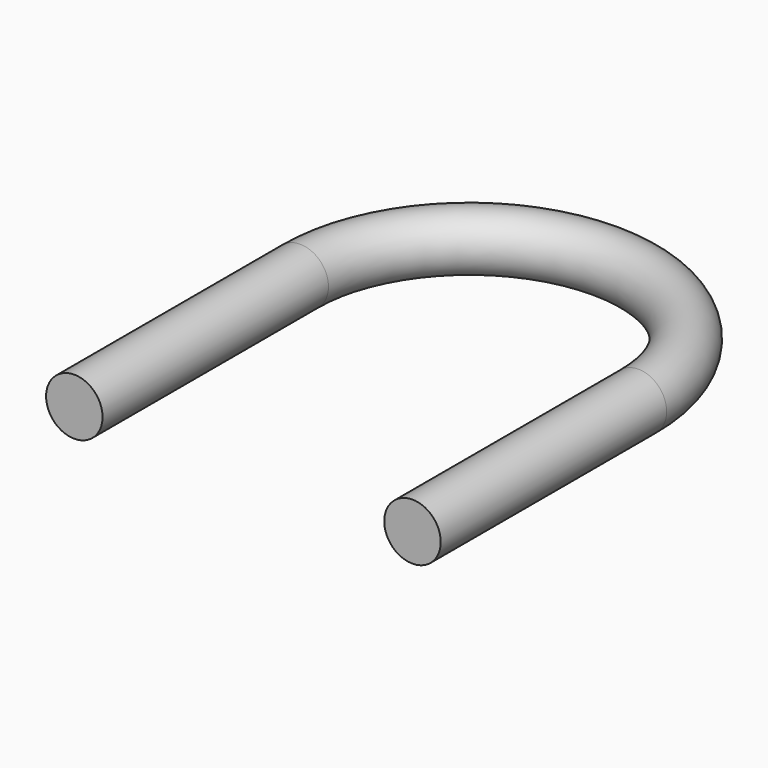
from build123d import *

# Parameters (mm, degrees)
F1_R = 6.35


with BuildPart() as f2:
    # F2: sweep along a path in F0
    with BuildLine(Plane.XY) as f2_path:
        Line((0, 0), (0, 63.5))
        ThreePointArc((0, 63.5), (-38.1, 101.6), (-76.2, 63.5))
        Line((-76.2, 63.5), (-76.2, 0))
    # F1 (on Front) → F2 (sweep)
    with BuildSketch(Plane.XZ):
        with Locations((-0.082816, -0.103281)):
            Circle(F1_R)
    sweep(path=f2_path.line)


solid = f2.part
